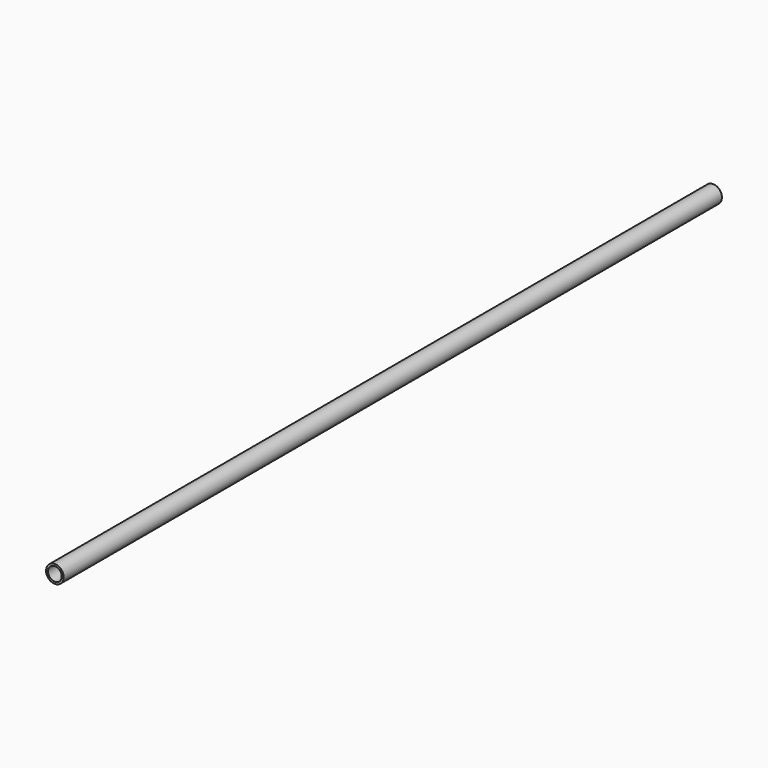
from build123d import *

# Parameters (mm, degrees)
F0_R     = 4.5
F1_DEPTH = 210
F2_T     = -1


with BuildPart() as f1:
    # F0 (on Front) → F1 (new body, symmetric)
    with BuildSketch(Plane.XZ):
        Circle(F0_R)
    extrude(amount=F1_DEPTH, both=True)

    # F2
    f2_openings = [f1.faces().sort_by_distance(p)[0] for p in [
        (0, -210, 0),
        (0, 210, 0),
    ]]
    offset(amount=F2_T, openings=f2_openings)


solid = f1.part
